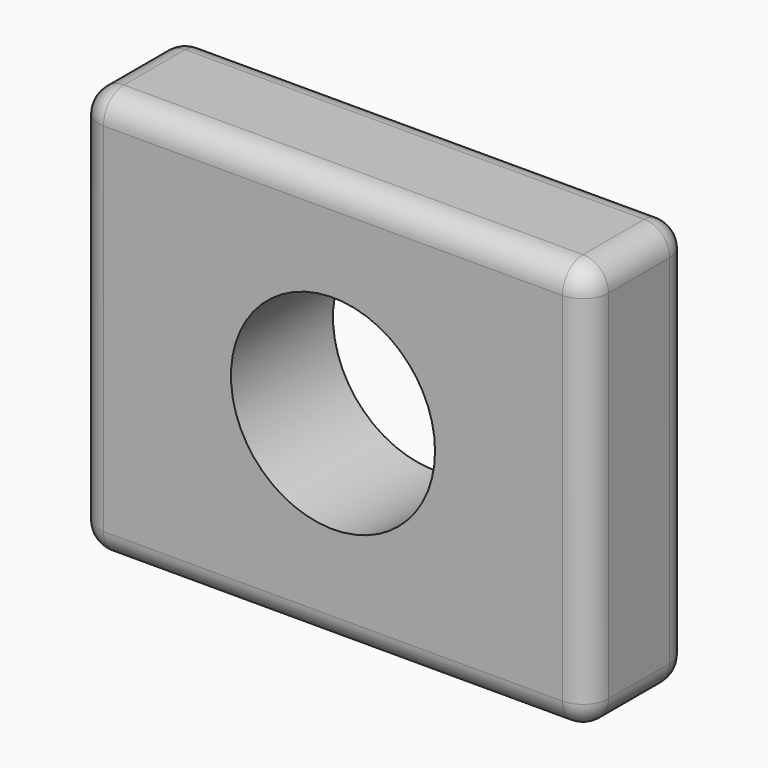
from build123d import *

# Parameters (mm, degrees)
F0_W     = 100
F0_H     = 80
F0_R     = 20
F1_DEPTH = 25
F2_R     = 5


with BuildPart() as f1:
    # F0 (on Front) → F1 (new body)
    with BuildSketch(Plane.XZ):
        Rectangle(F0_W, F0_H)
        Circle(F0_R, mode=Mode.SUBTRACT)
    extrude(amount=F1_DEPTH)

    # F2
    f2_edges = [f1.edges().sort_by_distance(p)[0] for p in [
        (50, -12.5, -40),
        (50, -12.5, 40),
        (50, 0, 0),
        (50, -25, 0),
        (-50, -12.5, 40),
        (0, 0, 40),
        (0, -25, 40),
        (-50, -12.5, -40),
        (-50, 0, 0),
        (-50, -25, 0),
        (0, 0, -40),
        (0, -25, -40),
    ]]
    fillet(f2_edges, radius=F2_R)


solid = f1.part
